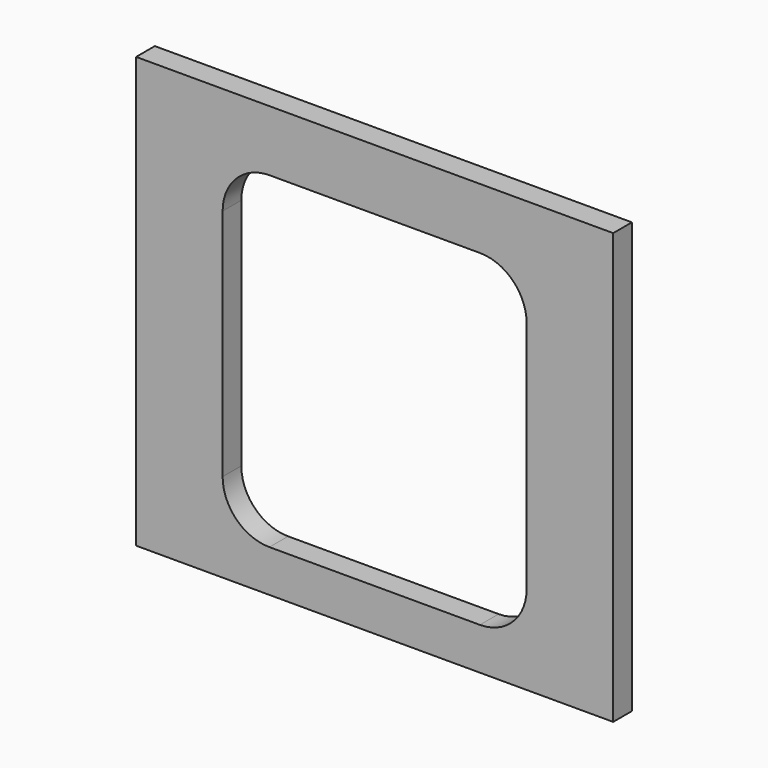
from build123d import *

# Parameters (mm, degrees)
F0_W     = 510
F0_H     = 460
F1_DEPTH = 25
F2_W     = 325
F2_H     = 350
F3_DEPTH = 25
F4_R     = 50


with BuildPart() as f1:
    # F0 (on Front) → F1 (new body)
    with BuildSketch(Plane.XZ):
        Rectangle(F0_W, F0_H)
    extrude(amount=F1_DEPTH)

    # F2 (on face) → F3 (cut)
    with BuildSketch(Plane.XZ.offset(25)):
        with Locations((0, -10)):
            Rectangle(F2_W, F2_H)
    extrude(amount=-F3_DEPTH, mode=Mode.SUBTRACT)

    # F4
    f4_edges = [f1.edges().sort_by_distance(p)[0] for p in [
        (-162.5, -12.5, 165),
        (162.5, -12.5, 165),
        (-162.5, -12.5, -185),
        (162.5, -12.5, -185),
    ]]
    fillet(f4_edges, radius=F4_R)


solid = f1.part
